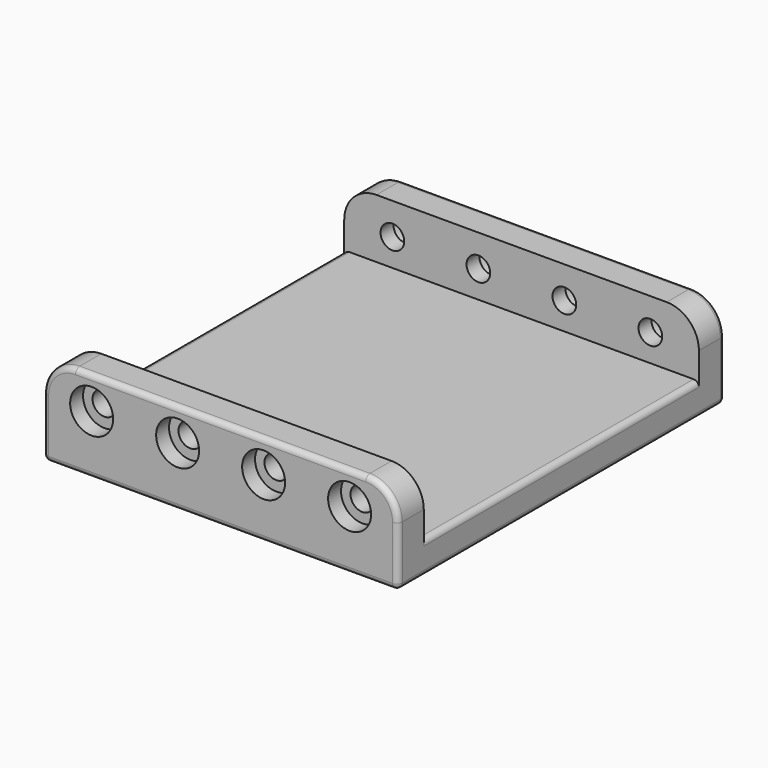
from build123d import *

# Parameters (mm, degrees)
F4_DEPTH = 3
F1_R     = 2
F5_DEPTH = 1.5
F2_R     = 1.1
F6_DEPTH = 3
F3_W     = 33
F3_H     = 3
F7_DEPTH = 19
F9_R     = 0.5
F10_R    = 0.5


with BuildPart() as f4:
    # F0 (on Front) → F4 (new body)
    with BuildSketch(Plane.XZ):
        with BuildLine():
            Line((13.5, 8.5), (-13.5, 8.5))
            ThreePointArc((-13.5, 8.5), (-15.6213203436, 7.6213203436), (-16.5, 5.5))
            Line((-16.5, 5.5), (-16.5, 0))
            Line((-16.5, 0), (16.5, 0))
            Line((16.5, 0), (16.5, 5.5))
            ThreePointArc((16.5, 5.5), (15.6213203436, 7.6213203436), (13.5, 8.5))
        make_face()
    extrude(amount=-F4_DEPTH)

    # F1 (on Front) → F5 (cut)
    with BuildSketch(Plane.XZ):
        with Locations((-12, 5.5)):
            Circle(F1_R)
        with Locations((-4, 5.5)):
            Circle(F1_R)
        with Locations((4, 5.5)):
            Circle(F1_R)
        with Locations((12, 5.5)):
            Circle(F1_R)
    extrude(amount=-F5_DEPTH, mode=Mode.SUBTRACT)

    # F2 (on Front) → F6 (cut)
    with BuildSketch(Plane.XZ):
        with Locations((-12.0200179517, 5.5340062827)):
            Circle(F2_R)
        with Locations((-4.0200179517, 5.5340062827)):
            Circle(F2_R)
        with Locations((3.9799820483, 5.5340062827)):
            Circle(F2_R)
        with Locations((11.9799820483, 5.5340062827)):
            Circle(F2_R)
    extrude(amount=-F6_DEPTH, mode=Mode.SUBTRACT)

    # F3 (on Front) → F7 (join)
    with BuildSketch(Plane.XZ):
        with Locations((0, 1.5)):
            Rectangle(F3_W, F3_H)
    extrude(amount=-F7_DEPTH)

    # F8: F4 across face


with BuildPart() as f4_1:
    add(f4.part)
    add(f4.part.mirror(Plane(origin=(0, 19, 1.5), x_dir=(1, 0, 0), z_dir=(0, 1, 0))))

    # F9
    f9_edges = [f4_1.edges().sort_by_distance(p)[0] for p in [
        (0, 0, 8.5),
        (0, 38, 8.5),
        (16.5, 19, 3),
        (-16.5, 19, 3),
    ]]
    fillet(f9_edges, radius=F9_R)

    # F10
    f10_edges = [f4_1.edges().sort_by_distance(p)[0] for p in [
        (-16.5, 19, 0),
        (-16.353553, 37.853553, 0),
        (-16.353553, 0.146447, 0),
        (0, 38, 0),
        (0, 0, 0),
        (16.353553, 37.853553, 0),
        (16.353553, 0.146447, 0),
        (16.5, 19, 0),
    ]]
    fillet(f10_edges, radius=F10_R)


solid = f4_1.part
